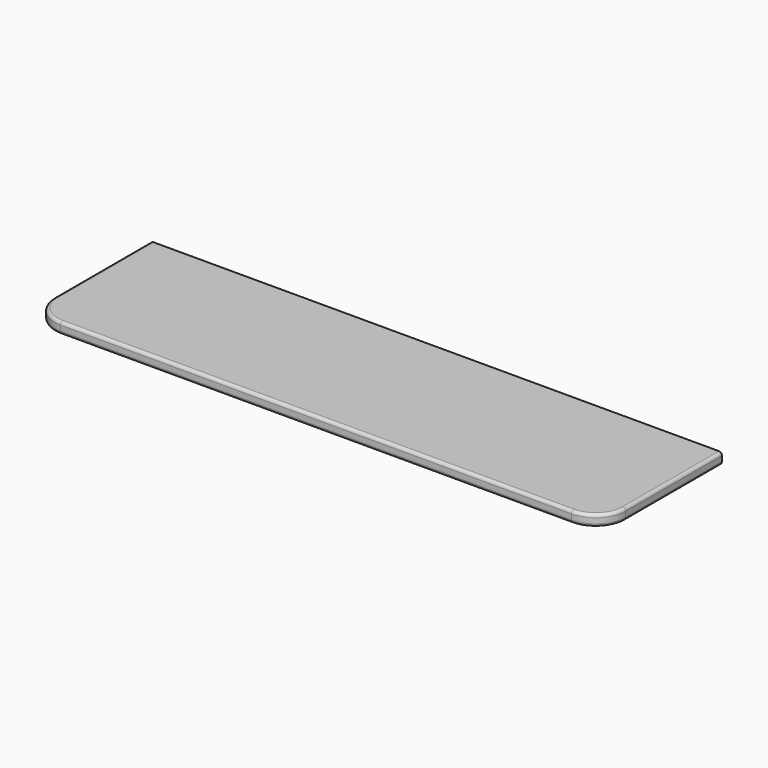
from build123d import *

# Parameters (mm, degrees)
F1_DEPTH = 19.05
F2_R     = 5.08
F3_R     = 5.08


with BuildPart() as f1:
    # F0 (on Top) → F1 (new body)
    with BuildSketch(Plane.XY):
        with BuildLine():
            Line((482.6, 127), (-482.6, 127))
            Line((-482.6, 127), (-482.6, -76.2))
            ThreePointArc((-482.6, -76.2), (-467.721024, -112.121024), (-431.8, -127))
            Line((-431.8, -127), (431.8, -127))
            ThreePointArc((431.8, -127), (467.721024, -112.121024), (482.6, -76.2))
            Line((482.6, -76.2), (482.6, 127))
        make_face()
    extrude(amount=F1_DEPTH)

    # F2
    f2_edges = [f1.edges().sort_by_distance(p)[0] for p in [
        (0, -127, 19.05),
    ]]
    fillet(f2_edges, radius=F2_R)

    # F3
    f3_edges = [f1.edges().sort_by_distance(p)[0] for p in [
        (0, -127, 0),
    ]]
    fillet(f3_edges, radius=F3_R)


solid = f1.part
